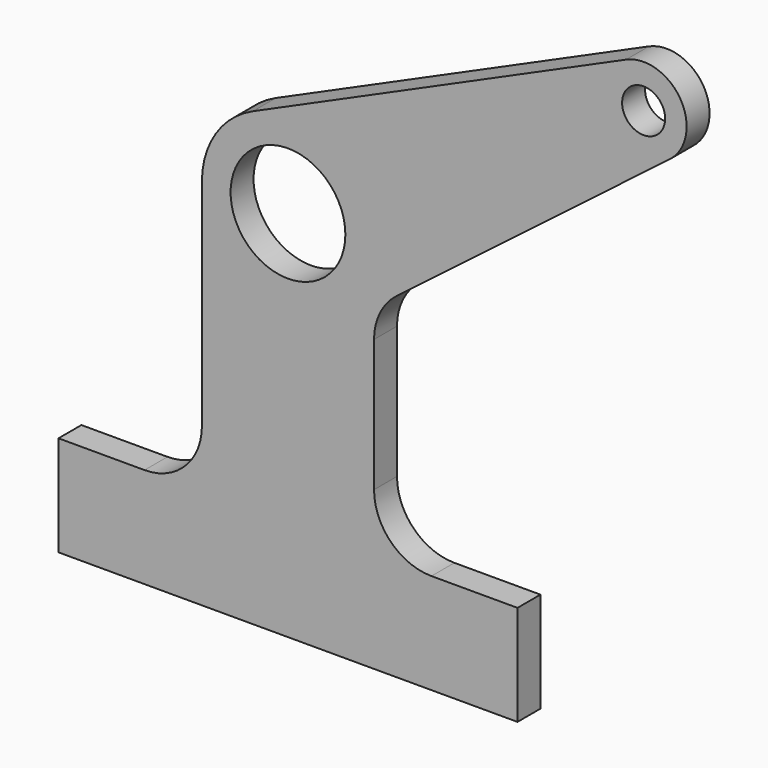
from build123d import *

# Parameters (mm, degrees)
F0_R     = 2
F0_R_2   = 0.75
F1_DEPTH = 0.5


with BuildPart() as f1:
    # F0 (on Front) → F1 (new body, symmetric)
    with BuildSketch(Plane.XZ):
        with BuildLine():
            Line((9.2315, 13.065941), (-3.77634, 7.251411))
            ThreePointArc((-3.77634, 7.251411), (-5.069297, 6.144638), (-5.552078, 4.512582))
            Line((-5.552078, 4.512582), (-5.552078, -2.987418))
            ThreePointArc((-5.552078, -2.987418), (-6.137864, -4.401631), (-7.552078, -4.987418))
            Line((-7.552078, -4.987418), (-10.552078, -4.987418))
            Line((-10.552078, -4.987418), (-10.552078, -8.487418))
            Line((-10.552078, -8.487418), (5.447922, -8.487418))
            Line((5.447922, -8.487418), (5.447922, -4.987418))
            Line((5.447922, -4.987418), (2.447922, -4.987418))
            ThreePointArc((2.447922, -4.987418), (1.033709, -4.401631), (0.447922, -2.987418))
            Line((0.447922, -2.987418), (0.447922, 1.622376))
            ThreePointArc((0.447922, 1.622376), (0.65454, 2.507691), (1.231704, 3.210083))
            Line((1.231704, 3.210083), (10.755795, 10.505747))
            ThreePointArc((10.755795, 10.505747), (11.132488, 12.46389), (9.2315, 13.065941))
        make_face()
        with Locations((-2.552078, 4.512582)):
            Circle(F0_R, mode=Mode.SUBTRACT)
        with Locations((9.843631, 11.696527)):
            Circle(F0_R_2, mode=Mode.SUBTRACT)
    extrude(amount=F1_DEPTH, both=True)


solid = f1.part
